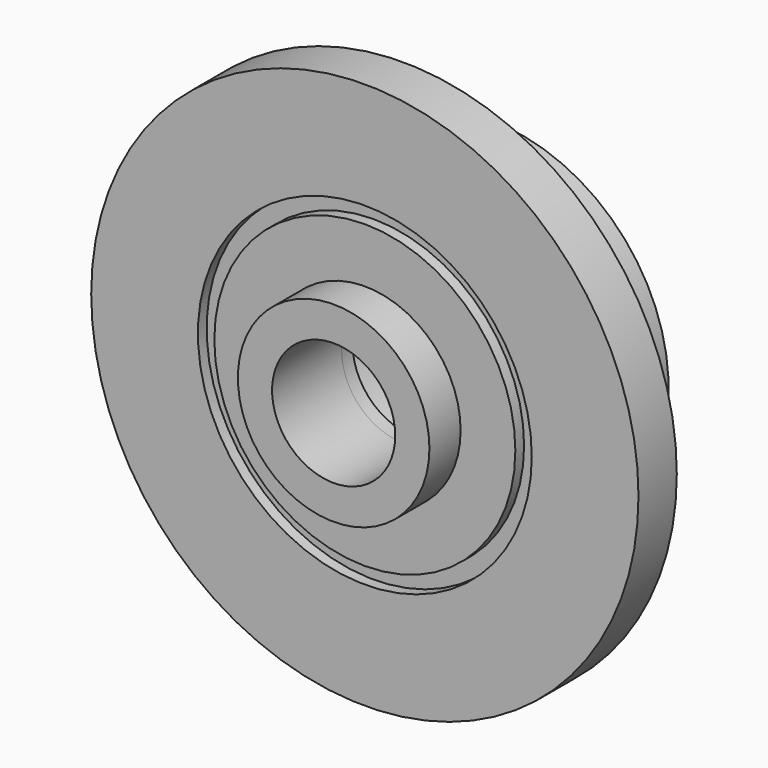
from build123d import *

# Parameters (mm, degrees)
F0_R      = 40
F0_R_2    = 9
F1_DEPTH  = 7
F2_R      = 14
F2_R_2    = 9
F3_DEPTH  = 10
F4_R      = 12.5
F5_DEPTH  = 4.2
F6_R      = 26
F6_R_2    = 9
F7_DEPTH  = 2
F8_R      = 26
F8_R_2    = 16.5
F9_DEPTH  = 14
F11_R     = 14
F12_DEPTH = 4.3
F13_W     = 2.4
F13_H     = 1.6


with BuildPart() as f1:
    # F0 (on Front) → F1 (new body)
    with BuildSketch(Plane.XZ):
        Circle(F0_R)
        Circle(F0_R_2, mode=Mode.SUBTRACT)
    extrude(amount=F1_DEPTH)

    # F2 (on face) → F3 (join)
    with BuildSketch(Plane.XZ.offset(7)):
        Circle(F2_R)
        Circle(F2_R_2, mode=Mode.SUBTRACT)
    extrude(amount=F3_DEPTH)

    # F4 (on face) → F5 (cut)
    with BuildSketch(Plane.XZ.offset(17)):
        Circle(F4_R)
    extrude(amount=-F5_DEPTH, mode=Mode.SUBTRACT)

    # F6 (on face) → F7 (join)
    with BuildSketch(Plane(origin=(0, 0, 0), x_dir=(-1, 0, 0), z_dir=(0, 1, 0))):
        Circle(F6_R)
        Circle(F6_R_2, mode=Mode.SUBTRACT)
    extrude(amount=F7_DEPTH)

    # F8 (on face) → F9 (join)
    with BuildSketch(Plane(origin=(0, 2, 0), x_dir=(-1, 0, 0), z_dir=(0, 1, 0))):
        Circle(F8_R)
        Circle(F8_R_2, mode=Mode.SUBTRACT)
    extrude(amount=F9_DEPTH)

    # F11 (on face) → F12 (cut)
    with BuildSketch(Plane.XZ.offset(17)):
        Circle(F11_R)
    extrude(amount=-F12_DEPTH, mode=Mode.SUBTRACT)

    # F13 (on Top) → F16 (revolve, cut)
    with BuildSketch(Plane.XY):
        with Locations((23.2, -6.2)):
            Rectangle(F13_W, F13_H)
    revolve(axis=Axis((0, -7, 0), (0, -1, 0)), mode=Mode.SUBTRACT)


with BuildPart() as f14_1:
    # F14: copy of F1
    add(f1.part.moved(Location((0, 0, 110.7))))


solid = f1.part
